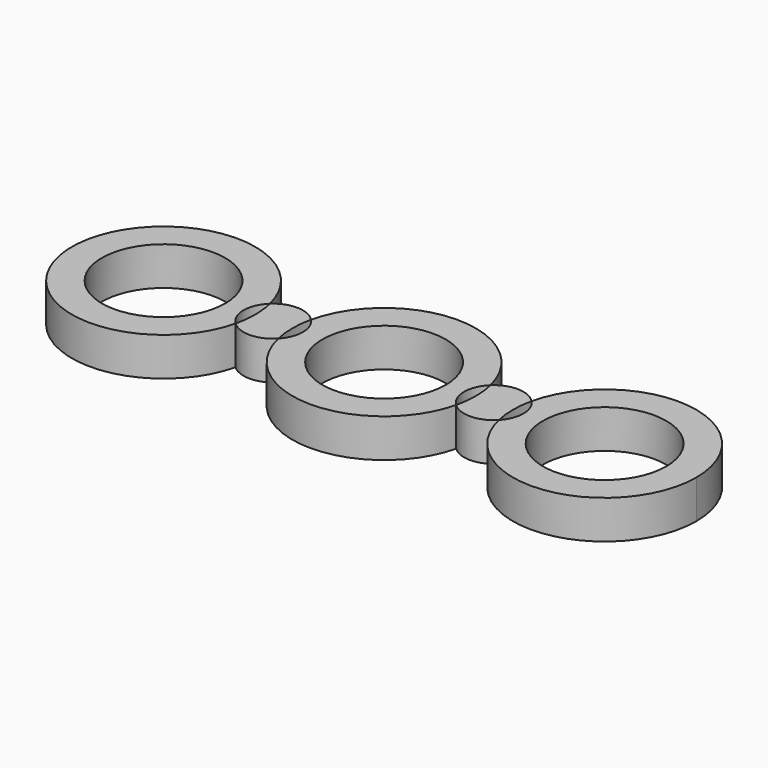
from build123d import *

# Parameters (mm, degrees)
F0_R     = 11.0998
F1_DEPTH = 6.9342


with BuildPart() as f1:
    # F0 (on Top) → F1 (new body)
    with BuildSketch(Plane.XY):
        with BuildLine():
            ThreePointArc((-59.2245934549, -3.8618282896), (-60.876980173, 0), (-59.2245934549, 3.8618282896))
            ThreePointArc((-59.2245934549, 3.8618282896), (-91.7865834332, 0), (-59.2245934549, -3.8618282896))
        make_face()
        with Locations((-75.2765834332, 0)):
            Circle(F0_R, mode=Mode.SUBTRACT)
    extrude(amount=F1_DEPTH)


with BuildPart() as f1b:
    # F0 (on Top) → F1, piece 2 (new body)
    with BuildSketch(Plane.XY):
        with BuildLine():
            ThreePointArc((-51.6708123922, -3.6809586365), (-52.0863834332, 0), (-51.6708123922, 3.6809586365))
            ThreePointArc((-51.6708123922, 3.6809586365), (-55.4102050064, 5.3374442142), (-59.2245934549, 3.8618282896))
            ThreePointArc((-59.2245934549, 3.8618282896), (-58.8814857735, 1.9444466384), (-58.7665834332, 0))
            ThreePointArc((-58.7665834332, 0), (-58.8814857735, -1.9444466384), (-59.2245934549, -3.8618282896))
            ThreePointArc((-59.2245934549, -3.8618282896), (-55.4102050064, -5.3374442142), (-51.6708123922, -3.6809586365))
        make_face()
    extrude(amount=F1_DEPTH)


with BuildPart() as f1c:
    # F0 (on Top) → F1, piece 3 (new body)
    with BuildSketch(Plane.XY):
        with BuildLine():
            ThreePointArc((-11.9714139963, -3.6774519874), (5.9742007705, -16.4059799555), (20.6338165668, 0))
            ThreePointArc((20.6338165668, 0), (5.9742007705, 16.4059799555), (-11.9714139963, 3.6774519874))
            ThreePointArc((-11.9714139963, 3.6774519874), (-10.882284166, 1.9802487083), (-10.5010784332, 0))
            ThreePointArc((-10.5010784332, 0), (-10.882284166, -1.9802487083), (-11.9714139963, -3.6774519874))
        make_face()
        with Locations((4.1238165668, 0)):
            Circle(F0_R, mode=Mode.SUBTRACT)
    extrude(amount=F1_DEPTH)


with BuildPart() as f1d:
    # F0 (on Top) → F1, piece 4 (new body)
    with BuildSketch(Plane.XY):
        with BuildLine():
            ThreePointArc((-19.5225392951, -3.8541131784), (-21.1690784332, 0), (-19.5225392951, 3.8541131784))
            ThreePointArc((-19.5225392951, 3.8541131784), (-35.6653070282, 16.509760525), (-51.6708123922, 3.6809586365))
            ThreePointArc((-51.6708123922, 3.6809586365), (-50.5806131201, 1.9821449095), (-50.1990320807, 0))
            ThreePointArc((-50.1990320807, 0), (-50.5806131201, -1.9821449095), (-51.6708123922, -3.6809586365))
            ThreePointArc((-51.6708123922, -3.6809586365), (-35.6653070282, -16.509760525), (-19.5225392951, -3.8541131784))
        make_face()
        with Locations((-35.5763834332, 0)):
            Circle(F0_R, mode=Mode.SUBTRACT)
    extrude(amount=F1_DEPTH)


with BuildPart() as f1e:
    # F0 (on Top) → F1, piece 5 (new body)
    with BuildSketch(Plane.XY):
        with BuildLine():
            ThreePointArc((-11.9714139963, -3.6774519874), (-12.3861834332, 0), (-11.9714139963, 3.6774519874))
            ThreePointArc((-11.9714139963, 3.6774519874), (-15.7103217938, 5.3325408373), (-19.5225392951, 3.8541131784))
            ThreePointArc((-19.5225392951, 3.8541131784), (-19.1808189915, 1.9405067999), (-19.0663834332, 0))
            ThreePointArc((-19.0663834332, 0), (-19.1808189915, -1.9405067999), (-19.5225392951, -3.8541131784))
            ThreePointArc((-19.5225392951, -3.8541131784), (-15.7103217938, -5.3325408373), (-11.9714139963, -3.6774519874))
        make_face()
    extrude(amount=F1_DEPTH)


solid = Compound([f1.part, f1b.part, f1c.part, f1d.part, f1e.part])
